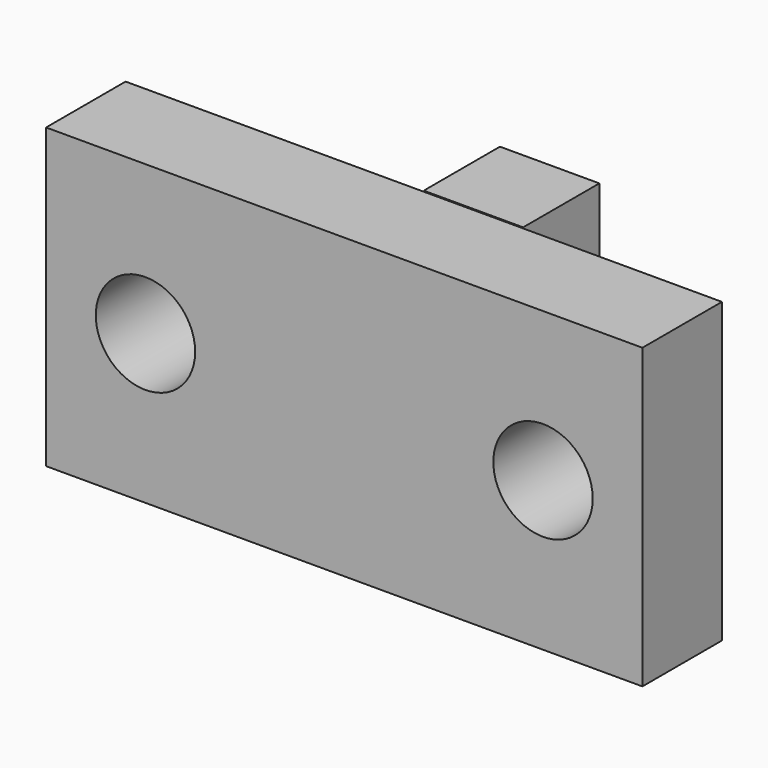
from build123d import *

# Parameters (mm, degrees)
F1_W     = 24.334839
F1_H     = 76.322902
F2_DEPTH = 25.4
F0_W     = 53.462906
F0_H     = 28.575
F0_R     = 12.7
F3_DEPTH = 25.4


with BuildPart() as f2:
    # F1 (on Right) → F2 (new body)
    with BuildSketch(Plane.YZ):
        with Locations((12.167419, 0.184355)):
            Rectangle(F1_W, F1_H)
    extrude(amount=F2_DEPTH)

    # F0 (on Front) → F3 (join)
    with BuildSketch(Plane.XZ):
        with Locations((0.399438, -23.8125)):
            Rectangle(F0_W, F0_H)
        Polygon((76.2, 38.1), (-76.2, 38.1), (-76.2, -38.1), (-26.332015, -38.1), (-26.332015, -9.525), (27.130891, -9.525), (27.130891, -38.1), (76.2, -38.1), align=None)
        with Locations((-50.8, 0)):
            Circle(F0_R, mode=Mode.SUBTRACT)
        with Locations((50.8, 0)):
            Circle(F0_R, mode=Mode.SUBTRACT)
    extrude(amount=F3_DEPTH)


solid = f2.part
